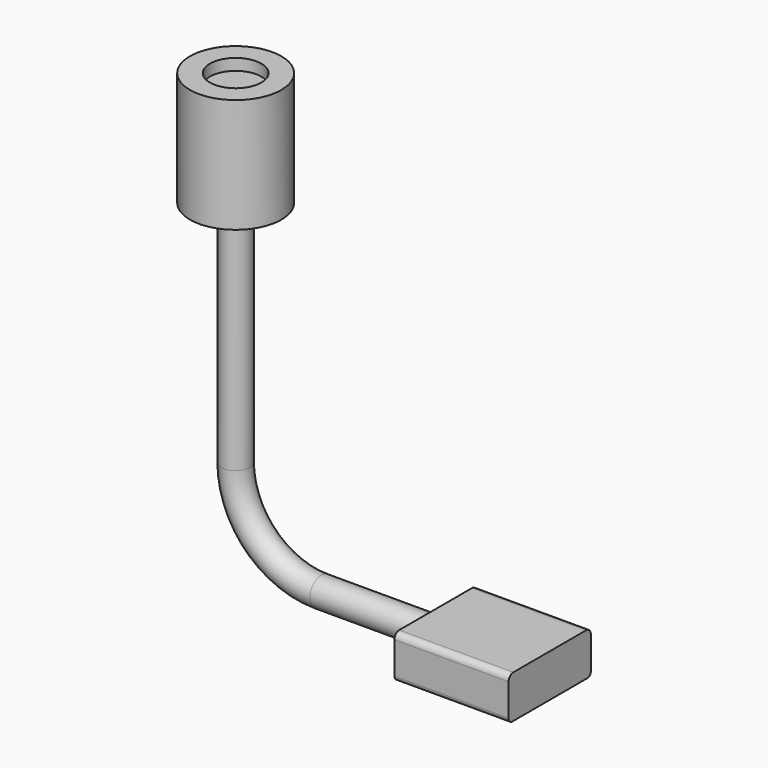
from build123d import *

# Parameters (mm, degrees)
SKETCH_R     = 8
PAD_DEPTH    = 20
SKETCH002_R  = 2.5
SKETCH003_R  = 4.5
POCKET_DEPTH = 2
PAD001_DEPTH = 20


with BuildPart() as part:
    # Sketch → Pad (new body)
    with BuildSketch(Plane.XY):
        Circle(SKETCH_R)
    extrude(amount=PAD_DEPTH)

    # AdditivePipe: sweep along a path in Sketch001
    with BuildLine(Plane.XZ) as additivepipe_path:
        Line((0, 0), (0, -40))
        ThreePointArc((0, -40), (4.393398, -50.606602), (15, -55))
        Line((15, -55), (35, -55))
    # Sketch002 (on Face2 of Pad) → AdditivePipe (sweep)
    with BuildSketch(Plane(origin=(0, 0, 0), x_dir=(1, 0, 0), z_dir=(0, 0, -1))):
        Circle(SKETCH002_R)
    sweep(path=additivepipe_path.line)

    # Sketch003 (on Face3 of AdditivePipe) → Pocket (cut)
    with BuildSketch(Plane.XY.offset(20)):
        Circle(SKETCH003_R)
    extrude(amount=-POCKET_DEPTH, mode=Mode.SUBTRACT)

    # Sketch004 (on Face9 of Pocket) → Pad001 (join)
    with BuildSketch(Plane.YZ.offset(35)):
        with BuildLine():
            Line((-9, -52.301853), (-9, -57.925102))
            ThreePointArc((-9, -57.925102), (-8.758393, -58.508393), (-8.175102, -58.75))
            Line((-8.175102, -58.75), (8.209949, -58.75))
            ThreePointArc((8.209949, -58.75), (8.7686, -58.5186), (9, -57.959949))
            Line((9, -57.959949), (9, -52.278293))
            ThreePointArc((9, -52.278293), (8.69882, -51.55118), (7.971707, -51.25))
            Line((7.971707, -51.25), (-7.948147, -51.25))
            ThreePointArc((-7.948147, -51.25), (-8.691919, -51.558081), (-9, -52.301853))
        make_face()
    extrude(amount=PAD001_DEPTH)


solid = part.part
